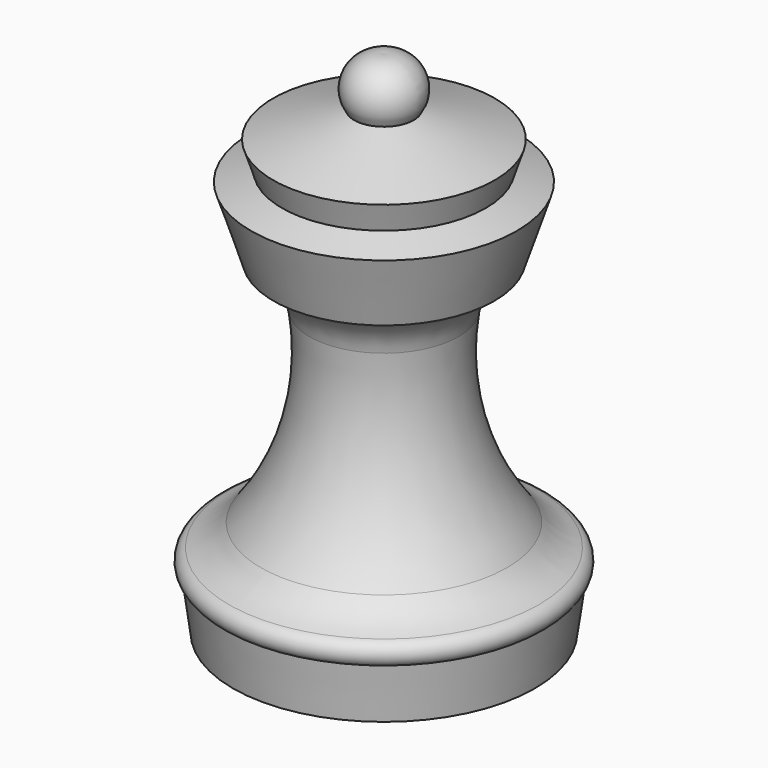
from build123d import *


with BuildPart() as f1:
    # F0 (on Front) → F1 (revolve)
    with BuildSketch(Plane.XZ):
        with BuildLine():
            Line((0, 57.424396), (0, 0))
            Line((0, 0), (17.001225, 0))
            Line((17.001225, 0), (17.819297, 6.009797))
            ThreePointArc((17.819297, 6.009797), (18.403485, 7.344265), (17.460376, 8.454502))
            ThreePointArc((17.460376, 8.454502), (15.481504, 9.433356), (13.88381, 10.956991))
            ThreePointArc((13.88381, 10.956991), (8.981733, 20.951096), (8.401765, 32.067577))
            ThreePointArc((8.401765, 32.067577), (9.741182, 35.055758), (12.432202, 36.921682))
            Line((12.432202, 36.921682), (14.963139, 44.682036))
            Line((14.963139, 44.682036), (11.477298, 45.818897))
            Line((11.477298, 45.818897), (12.486968, 48.914745))
            Line((12.486968, 48.914745), (3.350779, 51.894393))
            ThreePointArc((3.350779, 51.894393), (3.487473, 55.757385), (0, 57.424396))
        make_face()
    revolve(axis=Axis((0, 0, 28.712198), (0, 0, 1)))


solid = f1.part
